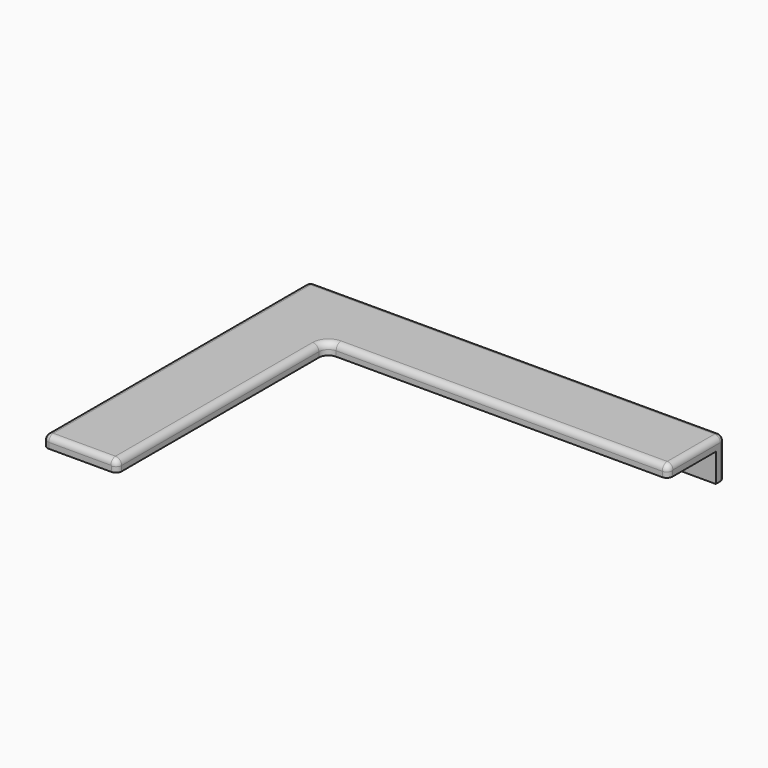
from build123d import *

# Parameters (mm, degrees)
F1_DEPTH = 4
F2_W     = 67
F2_H     = 4
F3_DEPTH = 10
F4_R     = 3.3798989873
F5_R     = 2.1727922061
F6_SIZE  = 10
F7_R     = 2
F8_R     = 2


with BuildPart() as f1:
    # F0 (on Top) → F1 (new body)
    with BuildSketch(Plane.XY):
        Polygon((37.1763631701, 61.2354552448), (-108.8236368299, 61.2354552448), (-108.8236368299, 36.2354552448), (-108.8236368299, -55.7645447552), (-82.8236368299, -55.7645447552), (-82.8236368299, 36.2354552448), (37.1763631701, 36.2354552448), align=None)
    extrude(amount=F1_DEPTH)

    # F2 (on face) → F3 (join)
    with BuildSketch(Plane(origin=(0, 0, 0), x_dir=(1, 0, 0), z_dir=(0, 0, -1))):
        with Locations((3.6763631701, -59.2354552448)):
            Rectangle(F2_W, F2_H)
        with Locations((-75.3236368299, -59.2354552448)):
            Rectangle(F2_W, F2_H)
    extrude(amount=F3_DEPTH)

    # F4
    f4_edges = [f1.edges().sort_by_distance(p)[0] for p in [
        (-82.823637, 36.235455, 2),
    ]]
    fillet(f4_edges, radius=F4_R)

    # F5
    f5_edges = [f1.edges().sort_by_distance(p)[0] for p in [
        (-82.823637, -11.454494, 4),
        (-21.133687, 36.235455, 4),
    ]]
    fillet(f5_edges, radius=F5_R)

    # F6
    f6_edges = [f1.edges().sort_by_distance(p)[0] for p in [
        (-108.823637, 59.235455, -10),
    ]]
    chamfer(f6_edges, length=F6_SIZE)

    # F7
    f7_edges = [f1.edges().sort_by_distance(p)[0] for p in [
        (-103.823637, 61.235455, -5),
        (-35.823637, 61.235455, 4),
        (-108.823637, 2.735455, 4),
        (-108.823637, 61.235455, 2),
        (37.176363, 61.235455, -3),
        (3.676363, 61.235455, -10),
        (-70.323637, 61.235455, -10),
        (37.176363, 49.821851, 4),
    ]]
    fillet(f7_edges, radius=F7_R)

    # F8
    f8_edges = [f1.edges().sort_by_distance(p)[0] for p in [
        (-95.910033, -55.764545, 4),
    ]]
    fillet(f8_edges, radius=F8_R)


solid = f1.part
